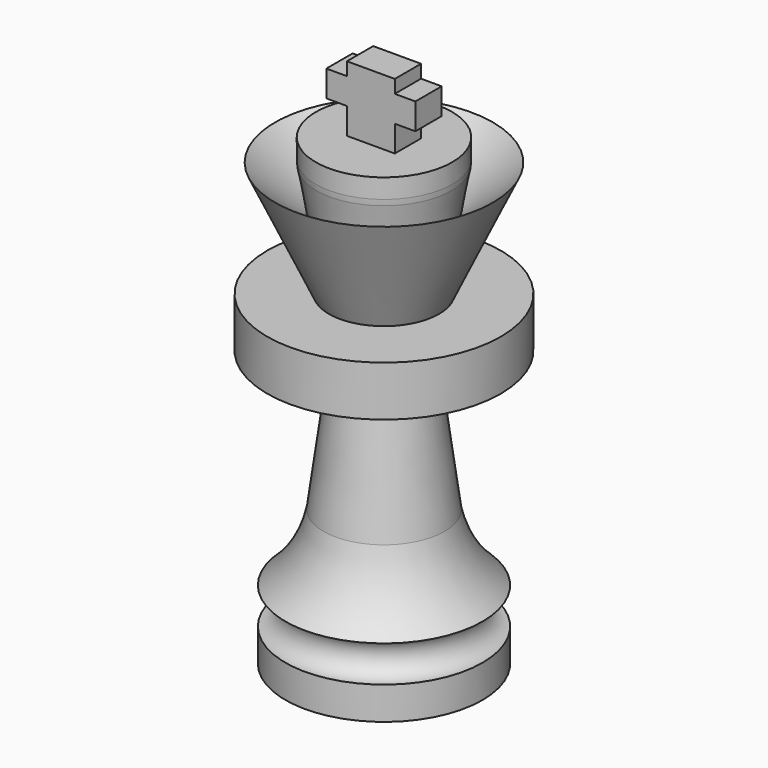
from build123d import *

# Parameters (mm, degrees)
F1_FACE_R = 15
F2_DEPTH  = 5
F3_DEPTH  = 2.5
F4_DEPTH  = 2.5
F5_R      = 5


with BuildPart() as f1:
    # F0 (on Front) → F1 (revolve)
    with BuildSketch(Plane.XZ):
        with BuildLine():
            Line((0, 65.57779), (0, 0))
            Line((0, 0), (15, 0))
            ThreePointArc((15, 0), (12.238, 2.762), (15, 5.524))
            ThreePointArc((15, 5.524), (11.27401, 10.147038), (9.206386, 15.713044))
            Line((9.206386, 15.713044), (6.373653, 36.958547))
            Line((6.373653, 36.958547), (17.772784, 36.958547))
            Line((17.772784, 36.958547), (17.772784, 44.600636))
            Line((17.772784, 44.600636), (8.38892, 44.600636))
            Line((8.38892, 44.600636), (16.571492, 62.178511))
            Line((16.571492, 62.178511), (9.241848, 55.88216))
            Line((9.241848, 55.88216), (10.373653, 62.178511))
            Line((10.373653, 62.178511), (10.373653, 65.57779))
            Line((10.373653, 65.57779), (3.642126, 65.57779))
            Line((3.642126, 65.57779), (0, 65.57779))
        make_face()
    revolve(axis=Axis((0, 0, 32.788895), (0, 0, 1)))

    # F1_face (on face) → F2 (join)
    with BuildSketch(Plane(origin=(0, 0, 0), x_dir=(1, 0, 0), z_dir=(0, 0, -1))):
        Circle(F1_FACE_R)
    extrude(amount=F2_DEPTH)

    # F0 (on Front) → F3 (join)
    with BuildSketch(Plane.XZ):
        Polygon((-3.642126, 65.57779), (0, 65.57779), (3.642126, 65.57779), (3.642126, 69.57779), (6.778388, 69.57779), (6.778388, 73.57779), (3.642126, 73.57779), (3.642126, 75.57779), (0, 75.57779), (-3.642126, 75.57779), (-3.642126, 73.57779), (-6.778388, 73.57779), (-6.778388, 69.57779), (-3.642126, 69.57779), align=None)
    extrude(amount=F3_DEPTH)

    # F0 (on Front) → F4 (join)
    with BuildSketch(Plane.XZ):
        Polygon((-3.642126, 65.57779), (0, 65.57779), (3.642126, 65.57779), (3.642126, 69.57779), (6.778388, 69.57779), (6.778388, 73.57779), (3.642126, 73.57779), (3.642126, 75.57779), (0, 75.57779), (-3.642126, 75.57779), (-3.642126, 73.57779), (-6.778388, 73.57779), (-6.778388, 69.57779), (-3.642126, 69.57779), align=None)
    extrude(amount=-F4_DEPTH)

    # F5
    f5_edges = [f1.edges().sort_by_distance(p)[0] for p in [
        (-10.373653, 0, 62.178511),
    ]]
    fillet(f5_edges, radius=F5_R)


solid = f1.part
